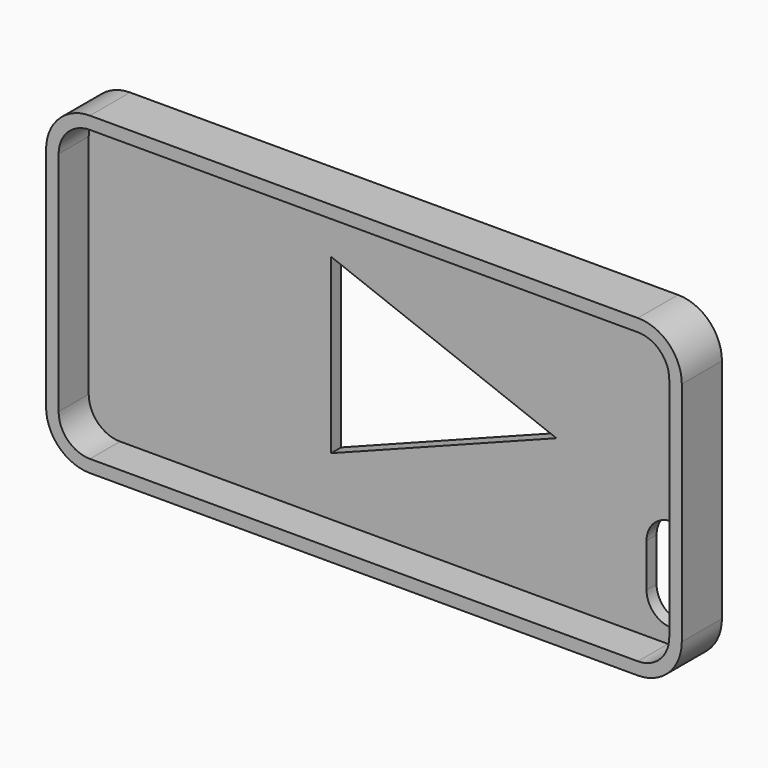
from build123d import *

# Parameters (mm, degrees)
F1_DEPTH      = 10.16
F3_DEPTH      = 7.62
F5_DEPTH      = 25.4
F7_DEPTH      = 25.4
F7_DEPTH_BACK = 25.4


with BuildPart() as f1:
    # F0 (on Front) → F1 (new body)
    with BuildSketch(Plane.XZ):
        with BuildLine():
            Line((55.499, 31.877), (-55.499, 31.877))
            ThreePointArc((-55.499, 31.877), (-61.785179, 29.273179), (-64.389, 22.987))
            Line((-64.389, 22.987), (-64.389, -22.987))
            ThreePointArc((-64.389, -22.987), (-61.785179, -29.273179), (-55.499, -31.877))
            Line((-55.499, -31.877), (55.499, -31.877))
            ThreePointArc((55.499, -31.877), (61.785179, -29.273179), (64.389, -22.987))
            Line((64.389, -22.987), (64.389, 22.987))
            ThreePointArc((64.389, 22.987), (61.785179, 29.273179), (55.499, 31.877))
        make_face()
    extrude(amount=F1_DEPTH)

    # F2 (on face) → F3 (cut)
    with BuildSketch(Plane.XZ.offset(10.16)):
        with BuildLine():
            Line((55.499, 29.337), (-55.499, 29.337))
            ThreePointArc((-55.499, 29.337), (-59.989128, 27.477128), (-61.849, 22.987))
            Line((-61.849, 22.987), (-61.849, -22.987))
            ThreePointArc((-61.849, -22.987), (-59.989128, -27.477128), (-55.499, -29.337))
            Line((-55.499, -29.337), (55.499, -29.337))
            ThreePointArc((55.499, -29.337), (59.989128, -27.477128), (61.849, -22.987))
            Line((61.849, -22.987), (61.849, 22.987))
            ThreePointArc((61.849, 22.987), (59.989128, 27.477128), (55.499, 29.337))
        make_face()
    extrude(amount=-F3_DEPTH, mode=Mode.SUBTRACT)

    # F4 (on face) → F5 (cut)
    with BuildSketch(Plane(origin=(0, 0, 0), x_dir=(-1, 0, 0), z_dir=(0, 1, 0))):
        with BuildLine():
            ThreePointArc((-61.394893, -21.146874), (-59.906995, -24.738976), (-56.314893, -26.226874))
            Line((-56.314893, -26.226874), (-56.235034, -26.226874))
            ThreePointArc((-56.235034, -26.226874), (-52.642932, -24.738976), (-51.155034, -21.146874))
            Line((-51.155034, -21.146874), (-51.155034, -12.330383))
            ThreePointArc((-51.155034, -12.330383), (-52.642932, -8.738281), (-56.235034, -7.250383))
            Line((-56.235034, -7.250383), (-56.314893, -7.250383))
            ThreePointArc((-56.314893, -7.250383), (-59.906995, -8.738281), (-61.394893, -12.330383))
            Line((-61.394893, -12.330383), (-61.394893, -21.146874))
        make_face()
    extrude(amount=-F5_DEPTH, mode=Mode.SUBTRACT)

    # F6 (on face) → F7 (cut, two sides)
    with BuildSketch(Plane(origin=(0, 0, 0), x_dir=(-1, 0, 0), z_dir=(0, 1, 0))) as f7_sk:
        Polygon((12.73114, 17.510513), (-32.89561, 0), (12.73114, -17.510513), align=None)
    extrude(amount=F7_DEPTH, mode=Mode.SUBTRACT)
    extrude(f7_sk.sketch, amount=-F7_DEPTH_BACK, mode=Mode.SUBTRACT)


solid = f1.part
